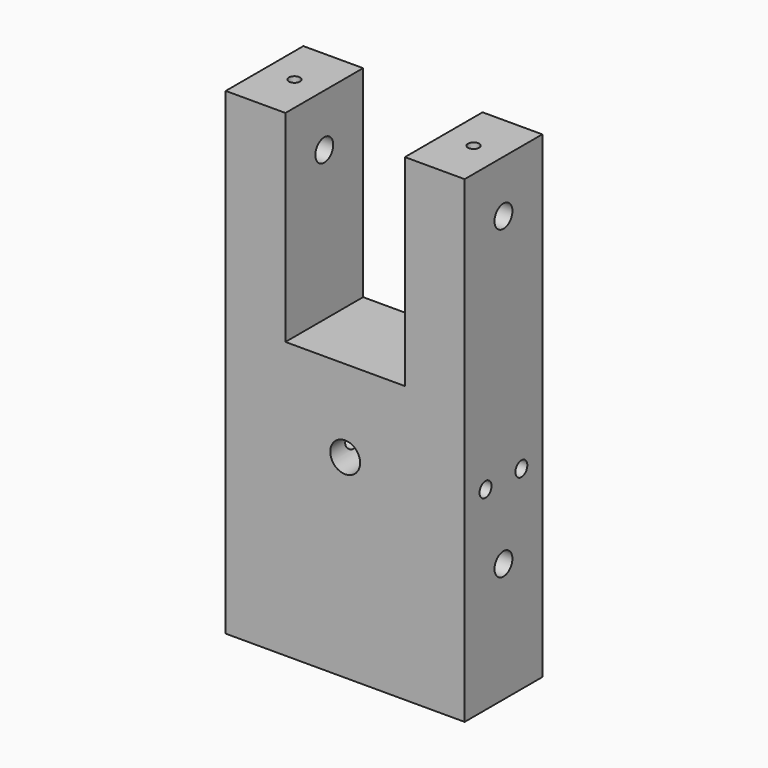
from build123d import *

# Parameters (mm, degrees)
F1_DEPTH  = 13
F2_R      = 1.5
F3_DEPTH  = 12
F4_R      = 1.5
F5_DEPTH  = 32.001
F6_DEPTH  = 32.001
F7_R      = 2
F8_DEPTH  = 6
F9_R      = 1
F10_DEPTH = 32.001
F11_R     = 1
F12_DEPTH = 5
F13_R     = 1
F14_DEPTH = 3.001
F15_R     = 1
F16_DEPTH = 3.001
F17_R     = 0.75
F18_DEPTH = 5.7019619943


with BuildPart() as f1:
    # F0 (on Front) → F1 (new body)
    with BuildSketch(Plane.XZ):
        Polygon((0, 64), (0, 0), (32, 0), (32, 64), (24, 64), (24, 37), (8, 37), (8, 64), align=None)
    extrude(amount=-F1_DEPTH)

    # F2 (on face) → F3 (cut)
    with BuildSketch(Plane(origin=(0, 0, 0), x_dir=(1, 0, 0), z_dir=(0, 0, -1))):
        with Locations((6.5, -6.5)):
            Circle(F2_R)
        with Locations((25.5, -6.5)):
            Circle(F2_R)
    extrude(amount=-F3_DEPTH, mode=Mode.SUBTRACT)

    # F4 (on face) → F5 (cut, through all)
    with BuildSketch(Plane.YZ.offset(32)):
        with Locations((6.5, 57)):
            Circle(F4_R)
    extrude(amount=-F5_DEPTH, mode=Mode.SUBTRACT)

    # F4 (on face) → F6 (cut, through all)
    with BuildSketch(Plane.YZ.offset(32)):
        with Locations((6.5, 16)):
            Circle(F4_R)
    extrude(amount=-F6_DEPTH, mode=Mode.SUBTRACT)

    # F7 (on face) → F8 (cut)
    with BuildSketch(Plane.XZ):
        with Locations((16, 26)):
            Circle(F7_R)
    extrude(amount=-F8_DEPTH, mode=Mode.SUBTRACT)

    # F9 (on face) → F10 (cut, through all)
    with BuildSketch(Plane(origin=(0, 0, 0), x_dir=(0, -1, 0), z_dir=(-1, 0, 0))):
        with Locations((-3.5, 26)):
            Circle(F9_R)
    extrude(amount=-F10_DEPTH, mode=Mode.SUBTRACT)

    # F11 (on face) → F12 (cut)
    with BuildSketch(Plane(origin=(0, 13, 0), x_dir=(-1, 0, 0), z_dir=(0, 1, 0))):
        with Locations((-29, 26)):
            Circle(F11_R)
        with Locations((-3, 26)):
            Circle(F11_R)
    extrude(amount=-F12_DEPTH, mode=Mode.SUBTRACT)

    # F13 (on face) → F14 (cut, through all)
    with BuildSketch(Plane(origin=(0, 0, 0), x_dir=(0, -1, 0), z_dir=(-1, 0, 0))):
        with Locations((-9.5, 26)):
            Circle(F13_R)
    extrude(amount=-F14_DEPTH, mode=Mode.SUBTRACT)

    # F15 (on face) → F16 (cut, through all)
    with BuildSketch(Plane.YZ.offset(32)):
        with Locations((9.5, 26)):
            Circle(F15_R)
    extrude(amount=-F16_DEPTH, mode=Mode.SUBTRACT)

    # F17 (on face) → F18 (cut, through all)
    with BuildSketch(Plane.XY.offset(64)):
        with Locations((4, 6.5)):
            Circle(F17_R)
        with Locations((28, 6.5)):
            Circle(F17_R)
    extrude(amount=-F18_DEPTH, mode=Mode.SUBTRACT)


solid = f1.part
